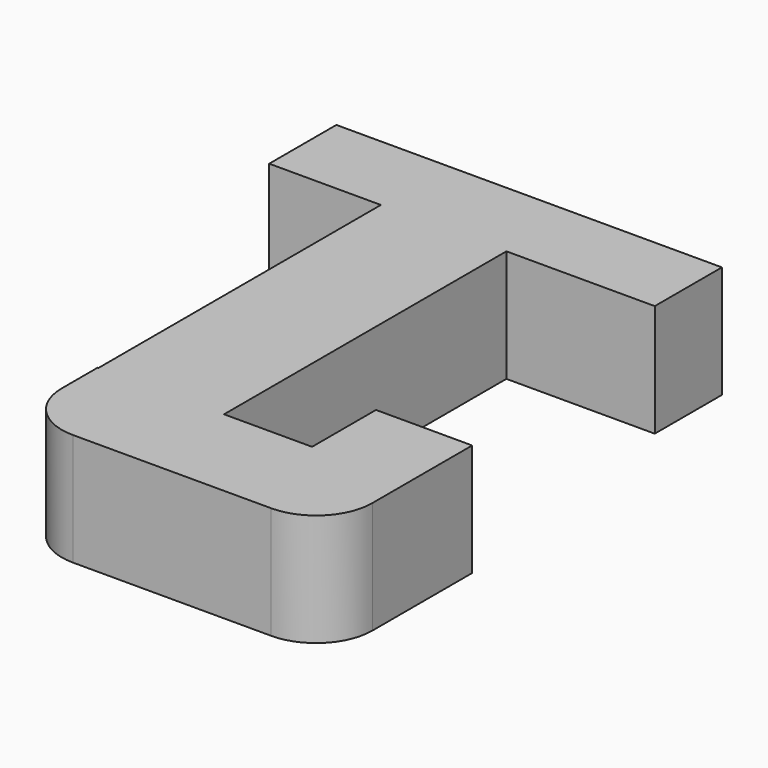
from build123d import *

# Parameters (mm, degrees)
F0_W     = 28.390645
F0_H     = 79.825648
F0_W_2   = 21.75387
F0_H_2   = 18.066776
F1_DEPTH = 25.4


with BuildPart() as f1:
    # F0 (on Top) → F1 (new body)
    with BuildSketch(Plane.XY):
        Polygon((-39.636292, 47.194839), (-14.379677, 47.194839), (14.010968, 47.194839), (47.563549, 47.194839), (47.563549, 66.183388), (-39.636292, 66.183388), align=None)
        with Locations((-0.184354, 7.282015)):
            Rectangle(F0_W, F0_H)
        with BuildLine():
            Line((14.010968, -32.630809), (-14.379677, -32.630809))
            Line((-14.379677, -32.630809), (-14.564033, -32.630809))
            Line((-14.564033, -32.630809), (-14.564033, -42.790807))
            ThreePointArc((-14.564033, -42.790807), (-10.844289, -51.771063), (-1.864033, -55.490807))
            Line((-1.864033, -55.490807), (14.010968, -55.490807))
            Line((14.010968, -55.490807), (14.010968, -32.630809))
        make_face()
        with BuildLine():
            Line((33.92129, -32.630809), (14.010968, -32.630809))
            Line((14.010968, -32.630809), (14.010968, -55.490807))
            Line((14.010968, -55.490807), (42.97516, -55.490807))
            ThreePointArc((42.97516, -55.490807), (51.955416, -51.771063), (55.67516, -42.790807))
            Line((55.67516, -42.790807), (55.67516, -32.630809))
            Line((55.67516, -32.630809), (33.92129, -32.630809))
        make_face()
        with Locations((44.798225, -23.597421)):
            Rectangle(F0_W_2, F0_H_2)
    extrude(amount=F1_DEPTH)


solid = f1.part
